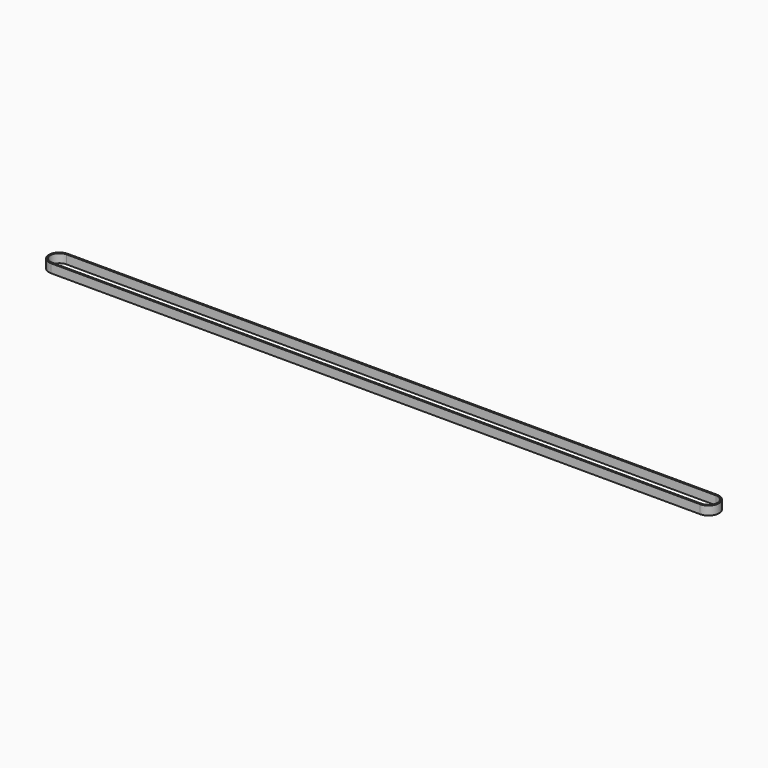
from build123d import *

# Parameters (mm, degrees)
PAD019_DEPTH = 3


with BuildPart() as part:
    # Sketch045 → Pad019 (new body, symmetric)
    with BuildSketch(Plane.XY):
        with BuildLine():
            ThreePointArc((444.983129, -8.14998), (452.149982, -1.016067), (445.015264, 6.149984))
            Line((0.015157, 7.099984), (445.015264, 6.149984))
            ThreePointArc((0.015157, 7.099984), (-7.099982, 0.015955), (-0.016753, -7.09998))
            Line((444.983129, -8.14998), (-0.016753, -7.09998))
        make_face()
        with BuildLine():
            ThreePointArc((0.013022, 6.099986), (-6.099985, 0.013708), (-0.014393, -6.099983))
            Line((-0.014393, -6.099983), (444.985489, -7.149983))
            ThreePointArc((444.985489, -7.149983), (451.149984, -1.01382), (445.013129, 5.149986))
            Line((445.013129, 5.149986), (0.013022, 6.099986))
        make_face(mode=Mode.SUBTRACT)
    extrude(amount=PAD019_DEPTH, both=True)


solid = part.part
